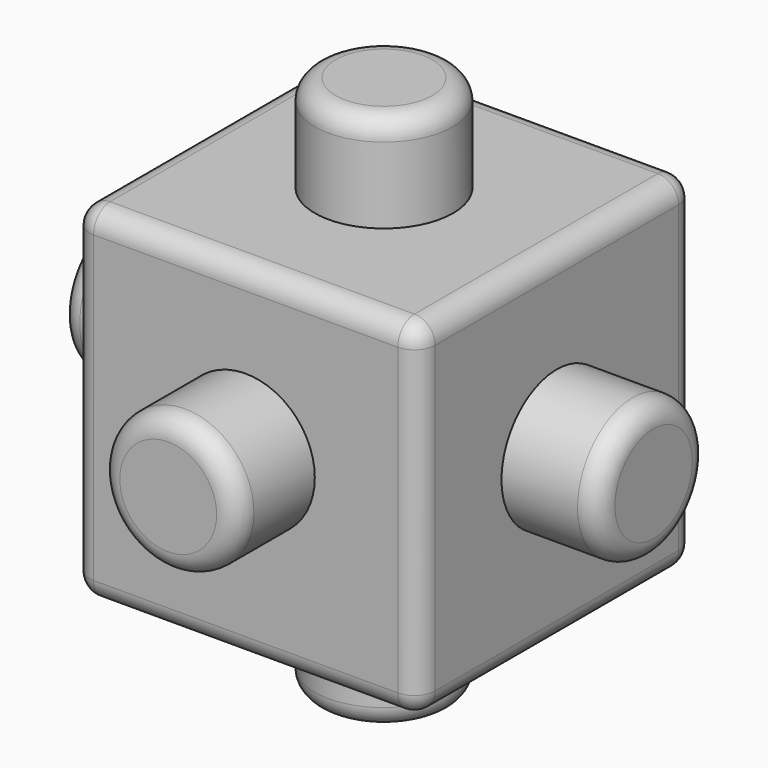
from build123d import *

# Parameters (mm, degrees)
F0_R          = 127
F1_DEPTH      = 177.8
F1_DEPTH_BACK = 812.8
F0_W          = 635
F0_H          = 635
F2_DEPTH      = 635
F3_R          = 38.1
F4_R          = 127
F5_DEPTH      = 177.8
F5_DEPTH_BACK = 812.8
F6_R          = 127
F7_DEPTH      = 177.8
F7_DEPTH_BACK = 812.8
F8_R          = 38.1


with BuildPart() as f1:
    # F0 (on Front) → F1 (new body, two sides)
    with BuildSketch(Plane.XZ) as f1_sk:
        with Locations((0, 18.889936)):
            Circle(F0_R)
    extrude(amount=F1_DEPTH)
    extrude(f1_sk.sketch, amount=-F1_DEPTH_BACK)

    # F0 (on Front) → F2 (join)
    with BuildSketch(Plane.XZ):
        Rectangle(F0_W, F0_H)
        with Locations((0, 18.889936)):
            Circle(F0_R, mode=Mode.SUBTRACT)
    extrude(amount=-F2_DEPTH)

    # F3
    f3_edges = [f1.edges().sort_by_distance(p)[0] for p in [
        (317.5, 317.5, -317.5),
        (317.5, 317.5, 317.5),
        (-317.5, 317.5, 317.5),
        (0, 635, 317.5),
        (-317.5, 635, 0),
        (317.5, 635, 0),
        (0, 635, -317.5),
        (-317.5, 317.5, -317.5),
        (-317.5, 0, 0),
        (0, 0, 317.5),
        (317.5, 0, 0),
        (0, 0, -317.5),
    ]]
    fillet(f3_edges, radius=F3_R)

    # F4 (on face) → F5 (join, two sides)
    with BuildSketch(Plane.XY.offset(317.5)) as f5_sk:
        with Locations((0, 317.5)):
            Circle(F4_R)
    extrude(amount=F5_DEPTH)
    extrude(f5_sk.sketch, amount=-F5_DEPTH_BACK)

    # F6 (on face) → F7 (join, two sides)
    with BuildSketch(Plane.YZ.offset(317.5)) as f7_sk:
        with Locations((317.5, 0)):
            Circle(F6_R)
    extrude(amount=F7_DEPTH)
    extrude(f7_sk.sketch, amount=-F7_DEPTH_BACK)

    # F8
    f8_edges = [f1.edges().sort_by_distance(p)[0] for p in [
        (-127, 812.8, 18.889936),
        (495.3, 190.5, 0),
        (-127, 317.5, 495.3),
        (-495.3, 190.5, 0),
        (-127, -177.8, 18.889936),
        (-127, 317.5, -495.3),
    ]]
    fillet(f8_edges, radius=F8_R)


solid = f1.part
